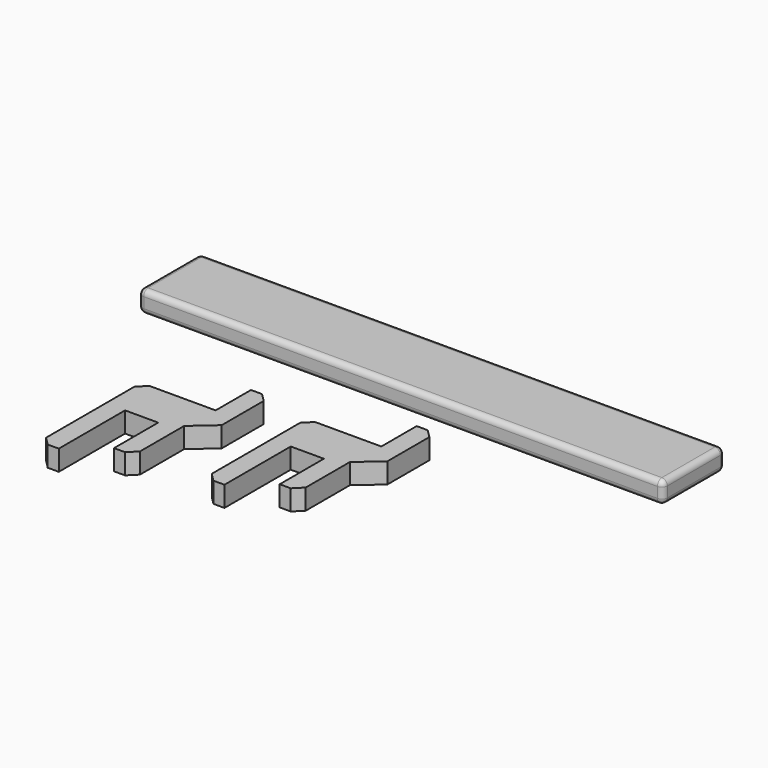
from build123d import *

# Parameters (mm, degrees)
BOX_W     = 95
BOX_H     = 14
BOX_DEPTH = 3.9
FILLET_R  = 1
PAD_DEPTH = 3.7


with BuildPart() as obj1:
    # Box → Box (new body)
    with BuildSketch(Plane(origin=(0, 22, 0), x_dir=(1, 0, 0), z_dir=(0, 0, 1))):
        with Locations((47.5, 7)):
            Rectangle(BOX_W, BOX_H)
    extrude(amount=BOX_DEPTH)

    # Fillet
    fillet_edges = [obj1.edges().sort_by_distance(p)[0] for p in [
        (0, 22, 1.95),
        (0, 29, 3.9),
        (0, 36, 1.95),
        (0, 29, 0),
        (95, 22, 1.95),
        (95, 29, 3.9),
        (95, 36, 1.95),
        (95, 29, 0),
        (47.5, 22, 0),
        (47.5, 22, 3.9),
        (47.5, 36, 0),
        (47.5, 36, 3.9),
    ]]
    fillet(fillet_edges, radius=FILLET_R)


with BuildPart() as pad:
    # Sketch → Pad (new body)
    with BuildSketch(Plane(origin=(26, 0, 4), x_dir=(1, 0, 0), z_dir=(0, 0, 1))):
        Polygon((23.635788, -0.032809), (35.635788, -0.032809), (35.635788, 7.967191), (37.635788, 7.967191), (39.135788, 6.467191), (39.135788, -3.032809), (35.135788, -6.532809), (35.135788, -16.532809), (33.635788, -18.032809), (31.635788, -18.032809), (31.635788, -8.032809), (25.635788, -8.032809), (25.635788, -23.032809), (23.635788, -23.032809), (22.135788, -21.532809), (22.135788, -1.532809), align=None)
    extrude(amount=PAD_DEPTH)


with BuildPart() as clone001:
    # Clone001 base: copy of Pad
    add(pad.part)


with BuildPart() as clone001_1:
    # Clone001 placement: moved
    add(clone001.part.moved(Location((-30, 0, -4))))


solid = Compound([obj1.part, pad.part, clone001_1.part])
